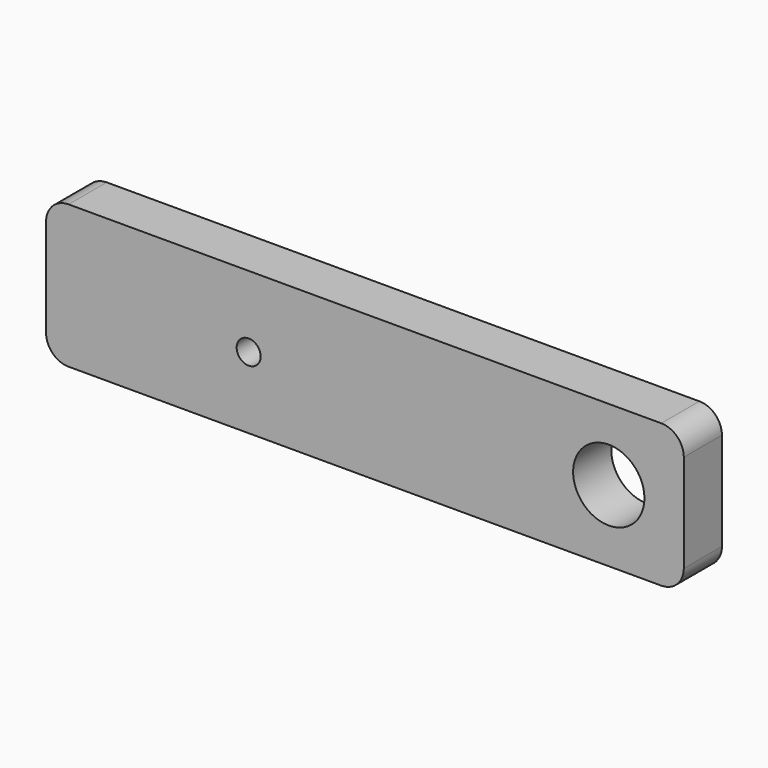
from build123d import *

# Parameters (mm, degrees)
F0_W     = 85
F0_H     = 19.05
F0_R     = 1.6
F0_R_2   = 4.75
F1_DEPTH = 6.35
F2_R     = 1.5
F3_DEPTH = 5
F4_R     = 3


with BuildPart() as f1:
    # F0 (on Front) → F1 (new body)
    with BuildSketch(Plane.XZ):
        Rectangle(F0_W, F0_H)
        with Locations((-15.5, 0)):
            Circle(F0_R, mode=Mode.SUBTRACT)
        with Locations((32.5, 0)):
            Circle(F0_R_2, mode=Mode.SUBTRACT)
    extrude(amount=F1_DEPTH)

    # F2 (on face) → F3 (cut)
    with BuildSketch(Plane(origin=(0, 0, -9.525), x_dir=(1, 0, 0), z_dir=(0, 0, -1))):
        with Locations((25.5, 3.175)):
            Circle(F2_R)
        with Locations((-25.5, 3.175)):
            Circle(F2_R)
    extrude(amount=-F3_DEPTH, mode=Mode.SUBTRACT)

    # F4
    f4_edges = [f1.edges().sort_by_distance(p)[0] for p in [
        (42.5, -3.175, 9.525),
        (-42.5, -3.175, 9.525),
        (42.5, -3.175, -9.525),
        (-42.5, -3.175, -9.525),
    ]]
    fillet(f4_edges, radius=F4_R)


solid = f1.part
